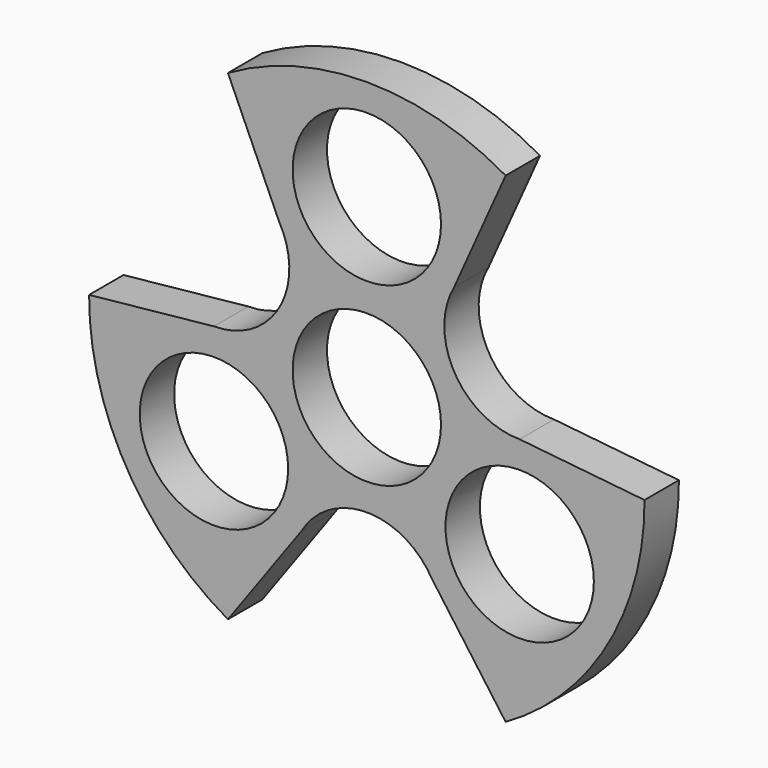
from build123d import *

# Parameters (mm, degrees)
F0_R     = 10.9601
F1_DEPTH = 6.35


with BuildPart() as f1:
    # F0 (on Front) → F1 (new body)
    with BuildSketch(Plane.XZ):
        with BuildLine():
            ThreePointArc((-12.937764, 18.607521), (-12.937764, 7.469621), (-22.583468, 1.900671))
            Line((-22.583468, 1.900671), (-41.025043, 0))
            ThreePointArc((-41.025043, 0), (-35.583676, -20.544245), (-20.512521, -35.528729))
            Line((-20.512521, -35.528729), (-9.645704, -20.508193))
            ThreePointArc((-9.645704, -20.508193), (0, -14.939243), (9.645704, -20.508193))
            Line((9.645704, -20.508193), (20.512521, -35.528729))
            ThreePointArc((20.512521, -35.528729), (35.58178, -20.54315), (41.025043, 0))
            Line((41.025043, 0), (22.583468, 1.900671))
            ThreePointArc((22.583468, 1.900671), (12.957863, 7.434952), (12.897939, 18.537966))
            Line((12.897939, 18.537966), (20.512521, 35.528729))
            ThreePointArc((20.512521, 35.528729), (0, 41.025043), (-20.512521, 35.528729))
            Line((-20.512521, 35.528729), (-12.937764, 18.607521))
        make_face()
        with Locations((-22.583468, -13.038571)):
            Circle(F0_R, mode=Mode.SUBTRACT)
        Circle(F0_R, mode=Mode.SUBTRACT)
        with Locations((22.583468, -13.038571)):
            Circle(F0_R, mode=Mode.SUBTRACT)
        with Locations((0, 26.077143)):
            Circle(F0_R, mode=Mode.SUBTRACT)
    extrude(amount=F1_DEPTH)


solid = f1.part
